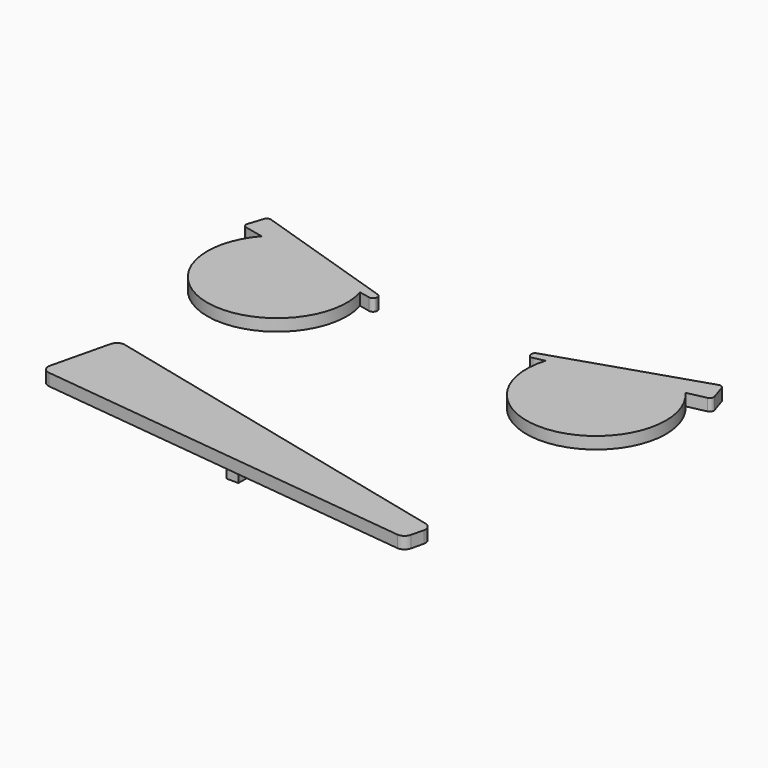
from build123d import *

# Parameters (mm, degrees)
F1_DEPTH = 3
F2_DEPTH = 3
F3_ANGLE = 180
F5_W     = 3
F5_H     = 3.5
F5_H_2   = 3
F5_W_2   = 3.5
F6_DEPTH = 3


with BuildPart() as f1:
    # F0 (on Top) → F1 (new body)
    with BuildSketch(Plane.XY):
        with BuildLine():
            Line((-19.476585964, 4.4708532235), (-16.7511225031, 5.0645725276))
            ThreePointArc((-16.7511225031, 5.0645725276), (3.7248704752, -17.098986518), (13.1267215086, 11.573209686))
            Line((13.1267215086, 11.573209686), (17.8378262338, 12.5994842478))
            ThreePointArc((17.8378262338, 12.5994842478), (18.4922619086, 13.0787579756), (18.5760330087, 13.8855861861))
            Line((18.5760330087, 13.8855861861), (17.3724079721, 17.5899631462))
            ThreePointArc((17.3724079721, 17.5899631462), (16.8753419555, 18.171952676), (16.1123344614, 18.2320026681))
            Line((16.1123344614, 18.2320026681), (-20.0278131578, 6.4893568819))
            ThreePointArc((-20.0278131578, 6.4893568819), (-20.6098026876, 5.9922908653), (-20.6698526797, 5.2292833712))
            Line((-20.6698526797, 5.2292833712), (-20.6404922217, 5.138921173))
            ThreePointArc((-20.6404922217, 5.138921173), (-20.1872469216, 4.5806527512), (-19.476585964, 4.4708532235))
        make_face()
    extrude(amount=F1_DEPTH)


with BuildPart() as f1b:
    # F0 (on Top) → F1, piece 2 (new body)
    with BuildSketch(Plane.XY):
        with BuildLine():
            Line((8.0553670353, -63.5326643258), (-85.2870152727, -41.1005519625))
            ThreePointArc((-85.2870152727, -41.1005519625), (-86.7989578789, -41.3396655466), (-87.6989839117, -42.577849253))
            Line((-87.6989839117, -42.577849253), (-91.2081764859, -57.179969176))
            ThreePointArc((-91.2081764859, -57.179969176), (-90.9021100367, -58.794082847), (-89.4904046035, -59.6343967075))
            Line((-89.4904046035, -59.6343967075), (6.606294771, -70.6055056455))
            ThreePointArc((6.606294771, -70.6055056455), (7.9799338502, -70.2569803038), (8.7777888182, -69.0857494624))
            Line((8.7777888182, -69.0857494624), (9.5326643258, -65.9446329647))
            ThreePointArc((9.5326643258, -65.9446329647), (9.2935507417, -64.4326903586), (8.0553670353, -63.5326643258))
        make_face()
    extrude(amount=F1_DEPTH)



with BuildPart() as f2:
    # F0 (on Top) → F2 (new body)
    with BuildSketch(Plane.XY):
        with BuildLine():
            Line((-19.476585964, 4.4708532235), (-16.7511225031, 5.0645725276))
            ThreePointArc((-16.7511225031, 5.0645725276), (3.7248704752, -17.098986518), (13.1267215086, 11.573209686))
            Line((13.1267215086, 11.573209686), (17.8378262338, 12.5994842478))
            ThreePointArc((17.8378262338, 12.5994842478), (18.4922619086, 13.0787579756), (18.5760330087, 13.8855861861))
            Line((18.5760330087, 13.8855861861), (17.3724079721, 17.5899631462))
            ThreePointArc((17.3724079721, 17.5899631462), (16.8753419555, 18.171952676), (16.1123344614, 18.2320026681))
            Line((16.1123344614, 18.2320026681), (-20.0278131578, 6.4893568819))
            ThreePointArc((-20.0278131578, 6.4893568819), (-20.6098026876, 5.9922908653), (-20.6698526797, 5.2292833712))
            Line((-20.6698526797, 5.2292833712), (-20.6404922217, 5.138921173))
            ThreePointArc((-20.6404922217, 5.138921173), (-20.1872469216, 4.5806527512), (-19.476585964, 4.4708532235))
        make_face()
    extrude(amount=F2_DEPTH)


with BuildPart() as f2b:
    # F0 (on Top) → F2, piece 2 (new body)
    with BuildSketch(Plane.XY):
        with BuildLine():
            Line((8.0553670353, -63.5326643258), (-85.2870152727, -41.1005519625))
            ThreePointArc((-85.2870152727, -41.1005519625), (-86.7989578789, -41.3396655466), (-87.6989839117, -42.577849253))
            Line((-87.6989839117, -42.577849253), (-91.2081764859, -57.179969176))
            ThreePointArc((-91.2081764859, -57.179969176), (-90.9021100367, -58.794082847), (-89.4904046035, -59.6343967075))
            Line((-89.4904046035, -59.6343967075), (6.606294771, -70.6055056455))
            ThreePointArc((6.606294771, -70.6055056455), (7.9799338502, -70.2569803038), (8.7777888182, -69.0857494624))
            Line((8.7777888182, -69.0857494624), (9.5326643258, -65.9446329647))
            ThreePointArc((9.5326643258, -65.9446329647), (9.2935507417, -64.4326903586), (8.0553670353, -63.5326643258))
        make_face()
    extrude(amount=F2_DEPTH)


with BuildPart() as f3_1:
    # F3: copy of F1
    add(f1.part.rotate(Axis((-40, -25.4947505891, 0), (0, 1, 0)), F3_ANGLE))


with BuildPart() as f3_1_1:
    # F4: moved
    add(f3_1.part.moved(Location((0, 0, 3))))

    # F5 (on face) → F6, piece 2 (join)
    with BuildSketch(Plane(origin=(0, 0, 0), x_dir=(1, 0, 0), z_dir=(0, 0, -1))):
        with Locations((-80, -3.25)):
            Rectangle(F5_W, F5_H)
        with Locations((-76.75, 0)):
            Rectangle(F5_W_2, F5_H_2)
        with Locations((-80, 0)):
            Rectangle(F5_W, F5_H_2)
        with Locations((-83.25, 0)):
            Rectangle(F5_W_2, F5_H_2)
        with Locations((-80, 3.25)):
            Rectangle(F5_W, F5_H)
    extrude(amount=F6_DEPTH)


with BuildPart() as f1_1:
    add(f1.part)

    add(f2.part)  # F6 merges F2
    # F5 (on face) → F6 (join)
    with BuildSketch(Plane(origin=(0, 0, 0), x_dir=(1, 0, 0), z_dir=(0, 0, -1))):
        with Locations((0, -3.25)):
            Rectangle(F5_W, F5_H)
        Rectangle(F5_W, F5_H_2)
        with Locations((3.25, 0)):
            Rectangle(F5_W_2, F5_H_2)
        with Locations((-3.25, 0)):
            Rectangle(F5_W_2, F5_H_2)
        with Locations((0, 3.25)):
            Rectangle(F5_W, F5_H)
    extrude(amount=F6_DEPTH)


with BuildPart() as f1b_1:
    add(f1b.part)

    add(f2b.part)  # F6#3 merges F2b
    # F5 (on face) → F6, piece 3 (join)
    with BuildSketch(Plane(origin=(0, 0, 0), x_dir=(1, 0, 0), z_dir=(0, 0, -1))):
        with Locations((-40, 55.75)):
            Rectangle(F5_W, F5_H)
        with Locations((-40, 59)):
            Rectangle(F5_W, F5_H_2)
        with Locations((-36.75, 59)):
            Rectangle(F5_W_2, F5_H_2)
        with Locations((-43.25, 59)):
            Rectangle(F5_W_2, F5_H_2)
        with Locations((-40, 62.25)):
            Rectangle(F5_W, F5_H)
    extrude(amount=F6_DEPTH)


solid = Compound([f3_1_1.part, f1_1.part, f1b_1.part])
